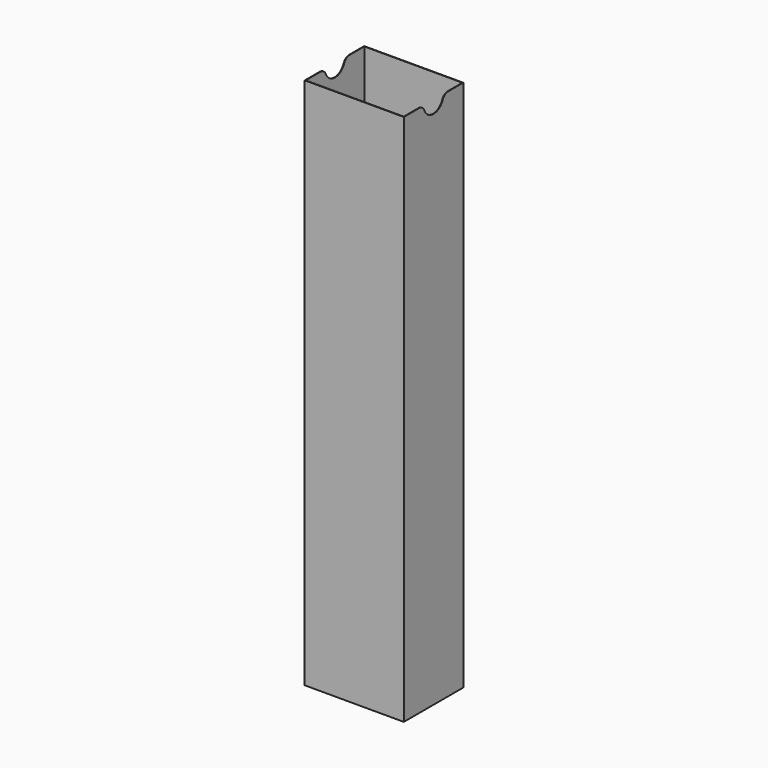
from build123d import *

# Parameters (mm, degrees)
F0_W     = 40
F0_H     = 215
F1_DEPTH = 15
F2_W     = 39.6
F2_H     = 29.6
F3_DEPTH = 214.8
F5_DEPTH = 62.4
F6_R     = 3


with BuildPart() as f1:
    # F0 (on Front) → F1 (new body, symmetric)
    with BuildSketch(Plane.XZ):
        Rectangle(F0_W, F0_H)
    extrude(amount=F1_DEPTH, both=True)

    # F2 (on face) → F3 (cut)
    with BuildSketch(Plane.XY.offset(107.5)):
        Rectangle(F2_W, F2_H)
    extrude(amount=-F3_DEPTH, mode=Mode.SUBTRACT)

    # F4 (on face) → F5 (cut, symmetric)
    with BuildSketch(Plane(origin=(-20, 0, 0), x_dir=(0, -1, 0), z_dir=(-1, 0, 0))):
        with BuildLine():
            Line((5, 107.5), (-5, 107.5))
            ThreePointArc((-5, 107.5), (0, 102.5), (5, 107.5))
        make_face()
    extrude(amount=F5_DEPTH, both=True, mode=Mode.SUBTRACT)

    # F6
    f6_edges = [f1.edges().sort_by_distance(p)[0] for p in [
        (19.9, -5, 107.5),
        (-19.9, -5, 107.5),
        (19.9, 5, 107.5),
        (-19.9, 5, 107.5),
    ]]
    fillet(f6_edges, radius=F6_R)


solid = f1.part
